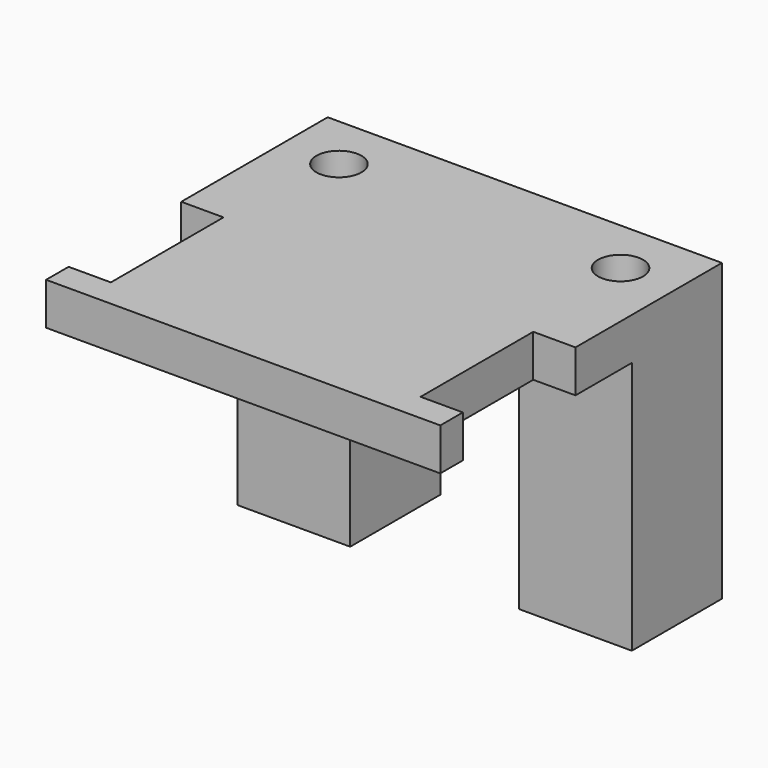
from build123d import *

# Parameters (mm, degrees)
BOX036_W          = 3
BOX036_H          = 10
BOX036_DEPTH      = 3
BOX037_W          = 3
BOX037_H          = 10
BOX037_DEPTH      = 3
CYLINDER028_R     = 1.6
CYLINDER028_DEPTH = 21
BOX031_W          = 6
BOX031_H          = 7
BOX031_DEPTH      = 1
CYLINDER027_R     = 1.6
CYLINDER027_DEPTH = 21
BOX032_W          = 6
BOX032_H          = 7
BOX032_DEPTH      = 1
BOX034_W          = 8
BOX034_H          = 8
BOX034_DEPTH      = 21
BOX033_W          = 8
BOX033_H          = 8
BOX033_DEPTH      = 21
BOX038_W          = 12
BOX038_H          = 8
BOX038_DEPTH      = 3
BOX035_W          = 28
BOX035_H          = 17
BOX035_DEPTH      = 3


with BuildPart() as cube036:
    # Box036 → Box036 (new body)
    with BuildSketch(Plane(origin=(0, -24, 18), x_dir=(1, 0, 0), z_dir=(0, 0, 1))):
        with Locations((1.5, 5)):
            Rectangle(BOX036_W, BOX036_H)
    extrude(amount=BOX036_DEPTH)


with BuildPart() as fusion020:
    # Box037 → Box037 (new body)
    with BuildSketch(Plane(origin=(25, -24, 18), x_dir=(1, 0, 0), z_dir=(0, 0, 1))):
        with Locations((1.5, 5)):
            Rectangle(BOX037_W, BOX037_H)
    extrude(amount=BOX037_DEPTH)

    # Fusion020: union Cube036
    add(cube036.part)


with BuildPart() as cylinder028:
    # Cylinder028 → Cylinder028 (new body)
    with BuildSketch(Plane(origin=(24, -5, 0), x_dir=(1, 0, 0), z_dir=(0, 0, 1))):
        Circle(CYLINDER028_R)
    extrude(amount=CYLINDER028_DEPTH)


with BuildPart() as cube031:
    # Box031 → Box031 (new body)
    with BuildSketch(Plane(origin=(1, -8, 0), x_dir=(1, 0, 0), z_dir=(0, 0, 1))):
        with Locations((3, 3.5)):
            Rectangle(BOX031_W, BOX031_H)
    extrude(amount=BOX031_DEPTH)


with BuildPart() as cylinder027:
    # Cylinder027 → Cylinder027 (new body)
    with BuildSketch(Plane(origin=(4, -5, 0), x_dir=(1, 0, 0), z_dir=(0, 0, 1))):
        Circle(CYLINDER027_R)
    extrude(amount=CYLINDER027_DEPTH)


with BuildPart() as fusion017:
    # Box032 → Box032 (new body)
    with BuildSketch(Plane(origin=(21, -8, 0), x_dir=(1, 0, 0), z_dir=(0, 0, 1))):
        with Locations((3, 3.5)):
            Rectangle(BOX032_W, BOX032_H)
    extrude(amount=BOX032_DEPTH)

    # Fusion017: union Cylinder028, Cube031, Cylinder027
    add(cylinder028.part)
    add(cube031.part)
    add(cylinder027.part)


with BuildPart() as cube034:
    # Box034 → Box034 (new body)
    with BuildSketch(Plane(origin=(20, -9, 0), x_dir=(1, 0, 0), z_dir=(0, 0, 1))):
        with Locations((4, 4)):
            Rectangle(BOX034_W, BOX034_H)
    extrude(amount=BOX034_DEPTH)


with BuildPart() as cut003009007:
    # Box033 → Box033 (new body)
    with BuildSketch(Plane(origin=(0, -9, 0), x_dir=(1, 0, 0), z_dir=(0, 0, 1))):
        with Locations((4, 4)):
            Rectangle(BOX033_W, BOX033_H)
    extrude(amount=BOX033_DEPTH)

    # Fusion018: union Cube034
    add(cube034.part)

    # Cut003009007: cut Fusion017
    add(fusion017.part, mode=Mode.SUBTRACT)


with BuildPart() as cube038:
    # Box038 → Box038 (new body)
    with BuildSketch(Plane(origin=(8, -9, 18), x_dir=(1, 0, 0), z_dir=(0, 0, 1))):
        with Locations((6, 4)):
            Rectangle(BOX038_W, BOX038_H)
    extrude(amount=BOX038_DEPTH)


with BuildPart() as cut003009008:
    # Box035 → Box035 (new body)
    with BuildSketch(Plane(origin=(0, -26, 18), x_dir=(1, 0, 0), z_dir=(0, 0, 1))):
        with Locations((14, 8.5)):
            Rectangle(BOX035_W, BOX035_H)
    extrude(amount=BOX035_DEPTH)

    # Fusion019: union Cut003009007, Cube038
    add(cut003009007.part)
    add(cube038.part)

    # Cut003009008: cut Fusion020
    add(fusion020.part, mode=Mode.SUBTRACT)


solid = cut003009008.part
